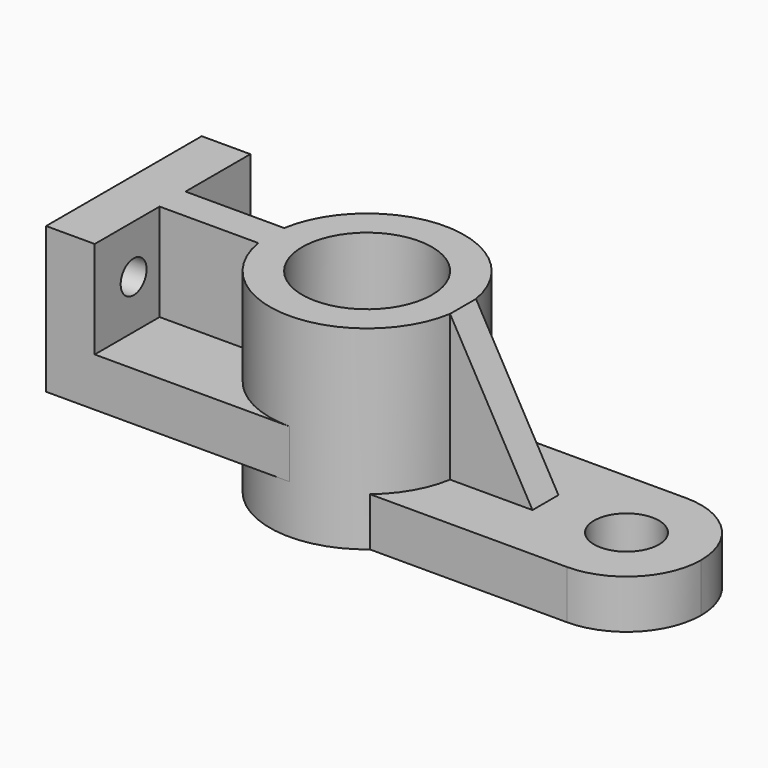
from build123d import *

# Parameters (mm, degrees)
F0_R      = 30
F0_R_2    = 20
F1_DEPTH  = 30
F3_DEPTH  = 15
F4_R      = 10
F5_DEPTH  = 25
F7_DEPTH  = 45
F9_DEPTH  = 35.001
F11_DEPTH = 15
F12_W     = 15
F12_H     = 30
F13_DEPTH = 30
F15_DEPTH = 30
F16_R     = 5
F17_DEPTH = 15.001


with BuildPart() as f1:
    # F0 (on Top) → F1 (new body, symmetric)
    with BuildSketch(Plane.XY):
        Circle(F0_R)
        Circle(F0_R_2, mode=Mode.SUBTRACT)
    extrude(amount=F1_DEPTH, both=True)

    # F2 (on face) → F3 (join)
    with BuildSketch(Plane(origin=(0, 0, -30), x_dir=(1, 0, 0), z_dir=(0, 0, -1))):
        with BuildLine():
            ThreePointArc((103, 0), (96.2634559673, 16.2634559673), (80, 23))
            Line((80, 23), (80, -23))
            ThreePointArc((80, -23), (96.2634559673, -16.2634559673), (103, 0))
        make_face()
        with BuildLine():
            ThreePointArc((80, -23), (57, 0), (80, 23))
            Line((80, 23), (19.2613602843, 23))
            ThreePointArc((19.2613602843, 23), (30, 0), (19.2613602843, -23))
            Line((19.2613602843, -23), (80, -23))
        make_face()
        with BuildLine():
            Line((80, -23), (80, 23))
            ThreePointArc((80, 23), (57, 0), (80, -23))
        make_face()
    extrude(amount=-F3_DEPTH)

    # F4 (on face) → F5 (cut)
    with BuildSketch(Plane.XY.offset(-15)):
        with Locations((80, 0)):
            Circle(F4_R)
    extrude(amount=-F5_DEPTH, mode=Mode.SUBTRACT)

    # F6 (on face) → F7 (join)
    with BuildSketch(Plane.XY.offset(-15)):
        with BuildLine():
            Line((55, 5), (29.5803989155, 5))
            ThreePointArc((29.5803989155, 5), (30, 0), (29.5803989155, -5))
            Line((29.5803989155, -5), (55, -5))
            Line((55, -5), (55, 5))
        make_face()
    extrude(amount=F7_DEPTH)

    # F8 (on face) → F9 (cut, through all)
    with BuildSketch(Plane.XZ.offset(5)):
        Polygon((29.5803989155, 30), (55, -15), (55, 30), align=None)
    extrude(amount=-F9_DEPTH, mode=Mode.SUBTRACT)

    # F10 (on Top) → F11 (join)
    with BuildSketch(Plane.XY):
        with BuildLine():
            ThreePointArc((0, -30), (-30, 0), (0, 30))
            Line((0, 30), (-75, 30))
            Line((-75, 30), (-75, -30))
            Line((-75, -30), (0, -30))
        make_face()
    extrude(amount=-F11_DEPTH)

    # F12 (on Front) → F13 (join, symmetric)
    with BuildSketch(Plane.XZ):
        with Locations((-67.5, 15)):
            Rectangle(F12_W, F12_H)
    extrude(amount=F13_DEPTH, both=True)

    # F14 (on Top) → F15 (join)
    with BuildSketch(Plane.XY):
        with BuildLine():
            Line((-29.5803989155, 5), (-60, 5))
            Line((-60, 5), (-60, -5))
            Line((-60, -5), (-29.5803989155, -5))
            ThreePointArc((-29.5803989155, -5), (-30, 0), (-29.5803989155, 5))
        make_face()
    extrude(amount=F15_DEPTH)

    # F16 (on face) → F17 (cut, through all)
    with BuildSketch(Plane.YZ.offset(-60)):
        with Locations((-15, 15)):
            Circle(F16_R)
        with Locations((15, 15)):
            Circle(F16_R)
    extrude(amount=-F17_DEPTH, mode=Mode.SUBTRACT)


solid = f1.part
